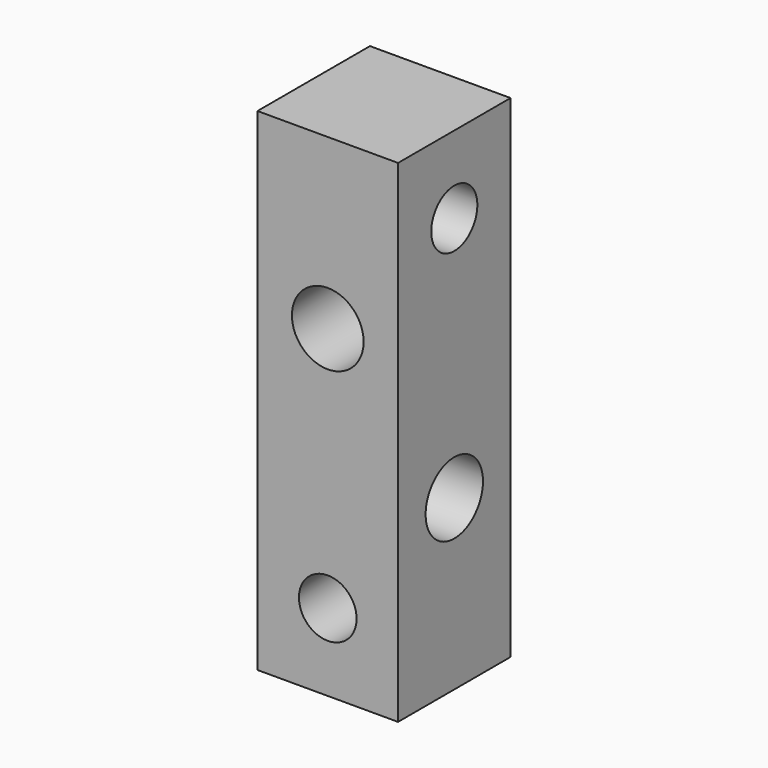
from build123d import *

# Parameters (mm, degrees)
F0_W     = 20
F0_H     = 20
F1_DEPTH = 70
F2_R     = 5.1
F2_R_2   = 4.1
F3_DEPTH = 20.001
F4_R     = 5.1
F4_R_2   = 4.1
F5_DEPTH = 20.001


with BuildPart() as f1:
    # F0 (on Top) → F1 (new body)
    with BuildSketch(Plane.XY):
        Rectangle(F0_W, F0_H)
    extrude(amount=F1_DEPTH)

    # F2 (on face) → F3 (cut, through all)
    with BuildSketch(Plane.XZ.offset(10)):
        with Locations((0, 46)):
            Circle(F2_R)
        with Locations((0, 11)):
            Circle(F2_R_2)
    extrude(amount=-F3_DEPTH, mode=Mode.SUBTRACT)

    # F4 (on face) → F5 (cut, through all)
    with BuildSketch(Plane.YZ.offset(10)):
        with Locations((0, 24)):
            Circle(F4_R)
        with Locations((0, 59)):
            Circle(F4_R_2)
    extrude(amount=-F5_DEPTH, mode=Mode.SUBTRACT)


solid = f1.part
